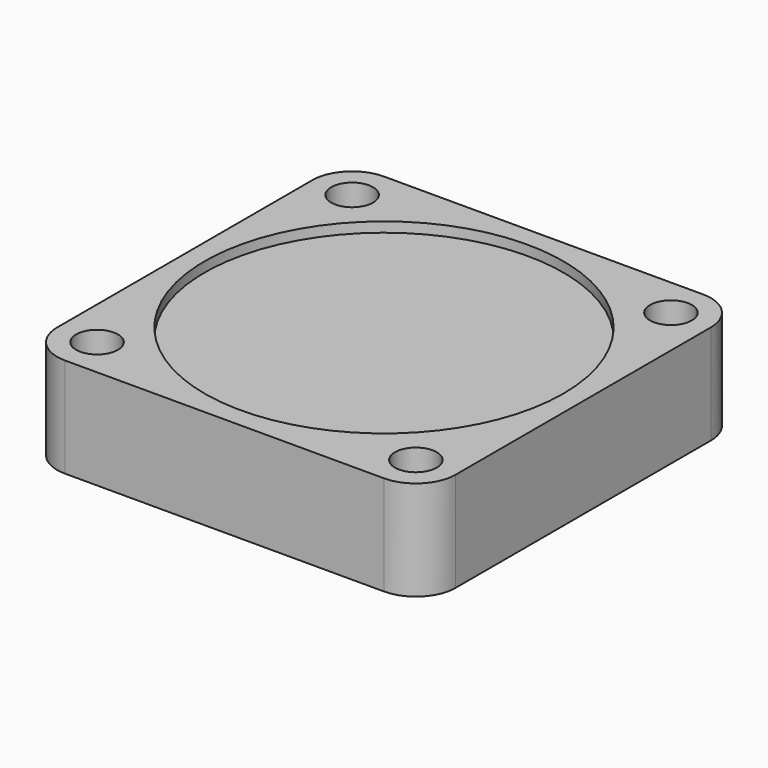
from build123d import *

# Parameters (mm, degrees)
F0_W     = 40
F0_H     = 40
F0_R     = 18
F1_DEPTH = 10
F2_DEPTH = 9
F3_D     = 4.2
F4_R     = 4


with BuildPart() as f1:
    # F0 (on Top) → F1 (new body)
    with BuildSketch(Plane.XY):
        Rectangle(F0_W, F0_H)
        Circle(F0_R, mode=Mode.SUBTRACT)
    extrude(amount=F1_DEPTH)

    # F0 (on Top) → F2 (join)
    with BuildSketch(Plane.XY):
        Circle(F0_R)
    extrude(amount=F2_DEPTH)

    # F3 (through all)
    with Locations(Plane(origin=(0, 0, 0), x_dir=(1, 0, 0), z_dir=(0, 0, -1))):
        with Locations((-16, 16), (-16, -16), (16, -16), (16, 16)):
            Hole(F3_D / 2)

    # F4
    f4_edges = [f1.edges().sort_by_distance(p)[0] for p in [
        (-20, -20, 5),
        (-20, 20, 5),
        (20, 20, 5),
        (20, -20, 5),
    ]]
    fillet(f4_edges, radius=F4_R)


solid = f1.part
